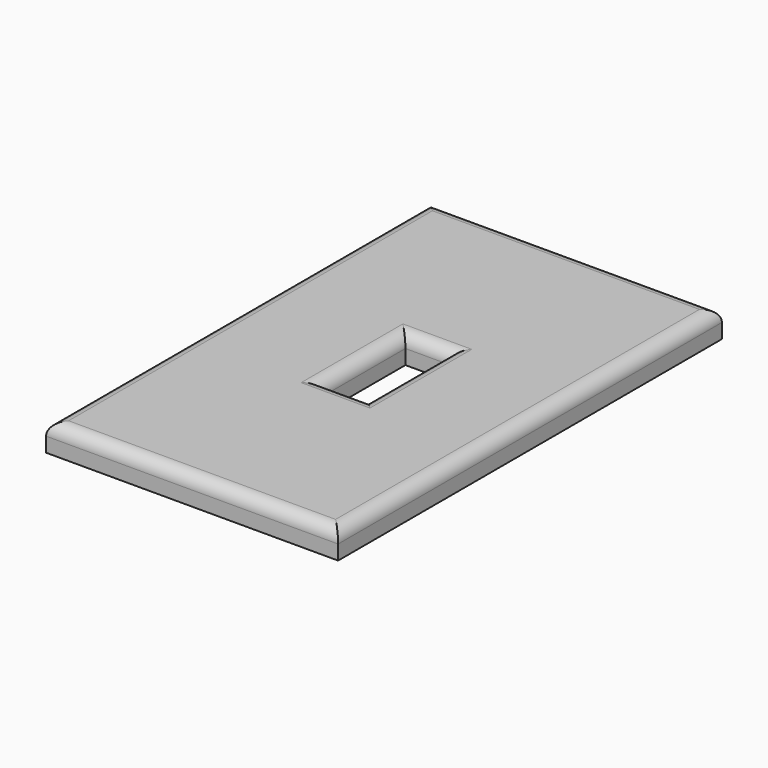
from build123d import *

# Parameters (mm, degrees)
F0_W     = 70
F0_H     = 115
F1_DEPTH = 6.5
F2_W     = 10.5
F2_H     = 24.5
F3_DEPTH = 6.5
F4_R     = 3


with BuildPart() as f1:
    # F0 (on Top) → F1 (new body)
    with BuildSketch(Plane.XY):
        with Locations((0.0314470381, -4.1025115179)):
            Rectangle(F0_W, F0_H)
    extrude(amount=F1_DEPTH)

    # F2 (on face) → F3 (cut, through all)
    with BuildSketch(Plane.XY.offset(6.5)):
        with Locations((0.6114470381, -4.1025115179)):
            Rectangle(F2_W, F2_H)
    extrude(amount=-F3_DEPTH, mode=Mode.SUBTRACT)

    # F4
    f4_edges = [f1.edges().sort_by_distance(p)[0] for p in [
        (35.031447, -4.102512, 6.5),
        (0.031447, -61.602512, 6.5),
        (0.031447, 53.397488, 6.5),
        (-34.968553, -4.102512, 6.5),
        (-4.638553, -4.102512, 6.5),
        (0.611447, -16.352512, 6.5),
        (5.861447, -4.102512, 6.5),
        (0.611447, 8.147488, 6.5),
    ]]
    fillet(f4_edges, radius=F4_R)


solid = f1.part
